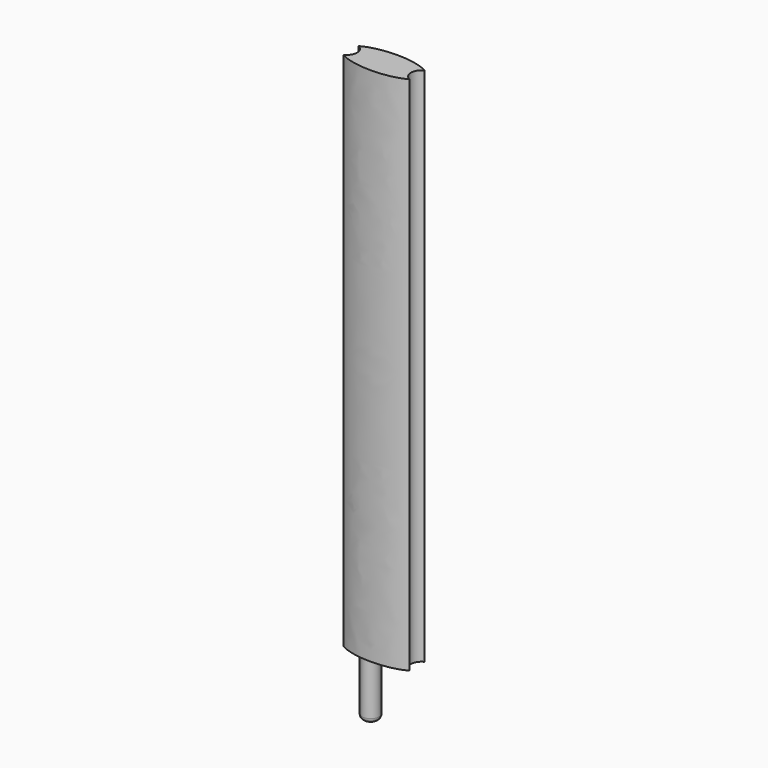
from build123d import *

# Parameters (mm, degrees)
F1_DEPTH = 110
F2_R     = 2
F3_DEPTH = 15
F4_R     = 1.8
F5_DEPTH = 13
F6_R     = 1


with BuildPart() as f1:
    # F0 (on Top) → F1 (new body)
    with BuildSketch(Plane.XY):
        with BuildLine():
            ThreePointArc((-6.9790131878, 1.9979447669), (-5.7, 0), (-6.9790131878, -1.9979447669))
            add(Edge.make_bspline(
                [(-6.9790131878, -1.9979447669), (0, -6.1313006259), (6.9790131878, -1.9979447669)],
                knots=[0.6075302167, 0.6075302167, 0.6075302167, 2.5340624369, 2.5340624369, 2.5340624369], degree=2, weights=[1, 0.570841362, 1]))
            ThreePointArc((6.9790131878, -1.9979447669), (5.7, 0), (6.9790131878, 1.9979447669))
            add(Edge.make_bspline(
                [(6.9790131878, 1.9979447669), (0, 6.1313006259), (-6.9790131878, 1.9979447669)],
                knots=[3.7491228703, 3.7491228703, 3.7491228703, 5.6756550905, 5.6756550905, 5.6756550905], degree=2, weights=[1, 0.570841362, 1]))
        make_face()
    extrude(amount=F1_DEPTH)

    # F2 (on face) → F3 (cut)
    with BuildSketch(Plane(origin=(0, 0, 0), x_dir=(1, 0, 0), z_dir=(0, 0, -1))):
        with Locations((2.8299042024, 0)):
            Circle(F2_R)
    extrude(amount=-F3_DEPTH, mode=Mode.SUBTRACT)

    # F4 (on face) → F5 (join)
    with BuildSketch(Plane(origin=(0, 0, 0), x_dir=(1, 0, 0), z_dir=(0, 0, -1))):
        with Locations((-2.8299042024, 0)):
            Circle(F4_R)
    extrude(amount=F5_DEPTH)

    # F6
    f6_edges = [f1.edges().sort_by_distance(p)[0] for p in [
        (-4.629904, 0, -13),
    ]]
    fillet(f6_edges, radius=F6_R)


solid = f1.part
